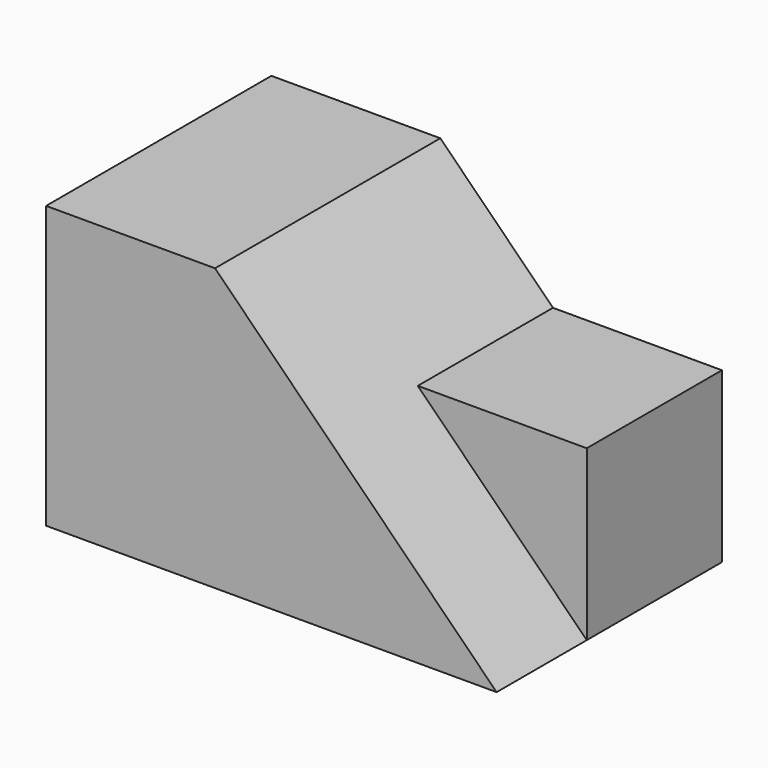
from build123d import *

# Parameters (mm, degrees)
F1_DEPTH = 63.5
F2_DEPTH = 38.1


with BuildPart() as f1:
    # F0 (on Front) → F1 (new body)
    with BuildSketch(Plane.XZ):
        Polygon((-32.528702, 19.96381), (-32.528702, -43.53619), (69.071298, -43.53619), (30.971298, -5.43619), (5.571298, 19.96381), align=None)
    extrude(amount=F1_DEPTH)


with BuildPart() as f2:
    # F0 (on Front) → F2 (new body)
    with BuildSketch(Plane.XZ):
        Polygon((30.971298, -5.43619), (69.071298, -43.53619), (69.071298, -5.43619), align=None)
    extrude(amount=F2_DEPTH)


solid = Compound([f1.part, f2.part])
